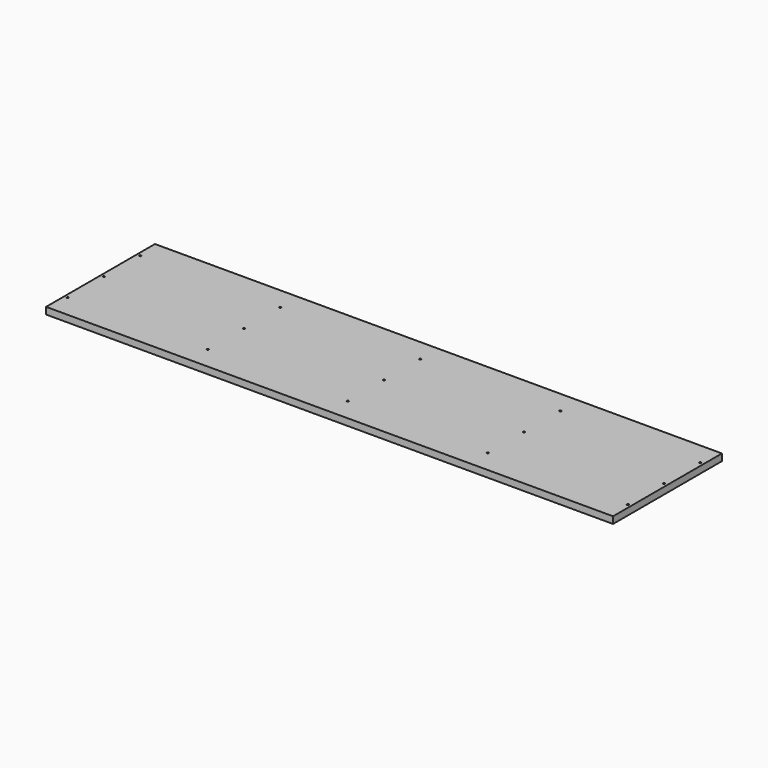
from build123d import *

# Parameters (mm, degrees)
F0_W     = 2500
F0_H     = 600
F1_DEPTH = 15
F3_D     = 8
F3_DEPTH = 30


with BuildPart() as f1:
    # F0 (on Top) → F1 (new body, symmetric)
    with BuildSketch(Plane.XY):
        Rectangle(F0_W, F0_H)
    extrude(amount=F1_DEPTH, both=True)

    # F3
    with Locations(Plane.XY.offset(15)):
        with Locations((-1235, 200), (-1235, 0), (-1235, -200), (-617.5, 200), (-617.5, 0), (-617.5, -200), (0, 200), (0, 0), (0, -200), (617.5, 200), (617.5, 0), (1235, 200), (1235, 0), (1235, -200), (617.5, -200)):
            Hole(F3_D / 2, depth=F3_DEPTH)


solid = f1.part
